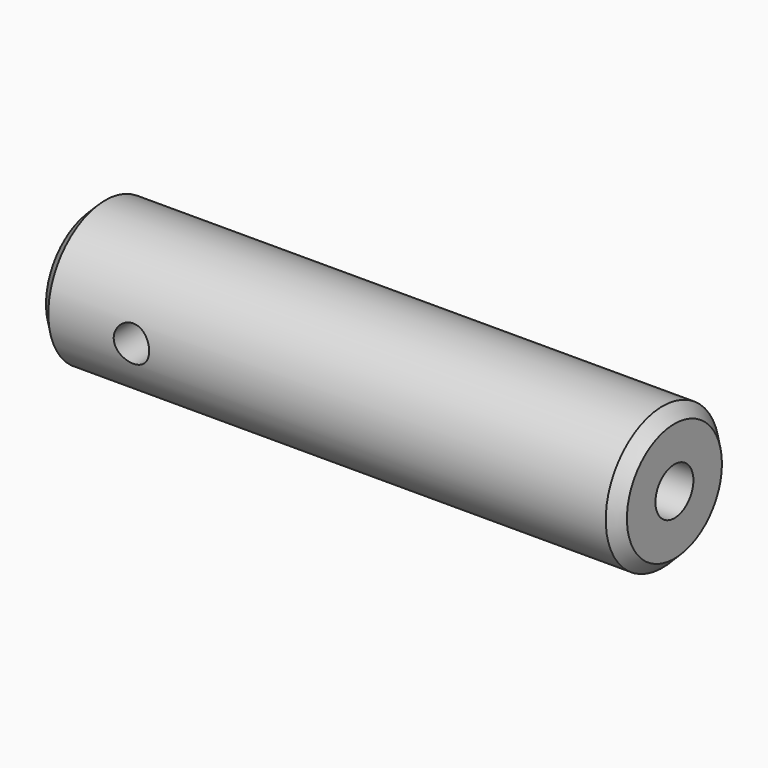
from build123d import *

# Parameters (mm, degrees)
F0_R          = 9.525
F0_R_2        = 3.175
F1_DEPTH      = 77.7748
F3_DEPTH      = 9.525
F3_DEPTH_BACK = 9.525
F4_SIZE2      = 1.5748
F4_SIZE       = 1.5748


with BuildPart() as f1:
    # F0 (on Right) → F1 (new body)
    with BuildSketch(Plane.YZ):
        Circle(F0_R)
        Circle(F0_R_2, mode=Mode.SUBTRACT)
    extrude(amount=F1_DEPTH)

    # F2 (on Front) → F3 (cut, two sides)
    with BuildSketch(Plane.XZ) as f3_sk:
        with BuildLine():
            ThreePointArc((10.3251, 0), (12.7, -2.3749), (15.0749, 0))
            ThreePointArc((15.0749, 0), (12.7, 2.3749), (10.3251, 0))
        make_face()
    extrude(amount=F3_DEPTH, mode=Mode.SUBTRACT)
    extrude(f3_sk.sketch, amount=-F3_DEPTH_BACK, mode=Mode.SUBTRACT)

    # F4
    f4_edges = [f1.edges().sort_by_distance(p)[0] for p in [
        (0, -9.525, 0),
        (77.7748, -9.525, 0),
    ]]
    chamfer(f4_edges, length=F4_SIZE, length2=F4_SIZE2)


solid = f1.part
